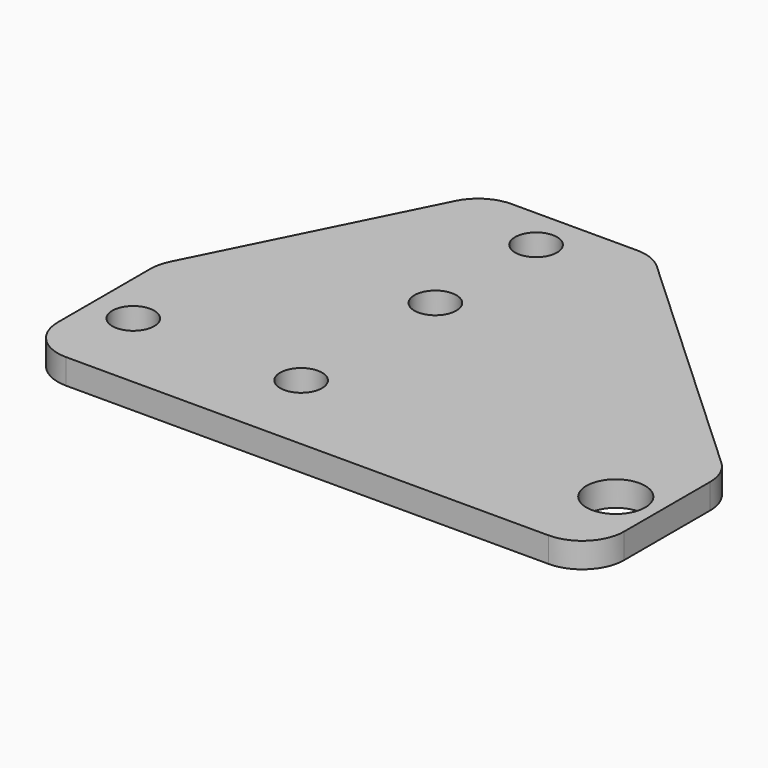
from build123d import *

# Parameters (mm, degrees)
F0_R     = 2.5
F0_R_2   = 3.5
F1_DEPTH = 3


with BuildPart() as f1:
    # F0 (on Top) → F1 (new body)
    with BuildSketch(Plane.XY):
        with BuildLine():
            Line((0, 18.81966), (0, 5))
            ThreePointArc((0, 5), (1.464466, 1.464466), (5, 0))
            Line((5, 0), (62.5, 0))
            ThreePointArc((62.5, 0), (66.035534, 1.464466), (67.5, 5))
            Line((67.5, 5), (67.5, 17.810844))
            ThreePointArc((67.5, 17.810844), (67.080229, 19.816211), (65.891401, 21.484861))
            Line((65.891401, 21.484861), (36.436481, 48.674017))
            ThreePointArc((36.436481, 48.674017), (34.865783, 49.65672), (33.045081, 50))
            Line((33.045081, 50), (18.09017, 50))
            ThreePointArc((18.09017, 50), (15.461514, 49.253254), (13.618034, 47.236068))
            Line((13.618034, 47.236068), (0.527864, 21.055728))
            ThreePointArc((0.527864, 21.055728), (0.133755, 19.968425), (0, 18.81966))
        make_face()
        with Locations((5, 10)):
            Circle(F0_R, mode=Mode.SUBTRACT)
        with Locations((25, 10)):
            Circle(F0_R, mode=Mode.SUBTRACT)
        with Locations((62.5, 10)):
            Circle(F0_R_2, mode=Mode.SUBTRACT)
        with Locations((25, 30)):
            Circle(F0_R, mode=Mode.SUBTRACT)
        with Locations((25, 45)):
            Circle(F0_R, mode=Mode.SUBTRACT)
    extrude(amount=F1_DEPTH)


solid = f1.part
